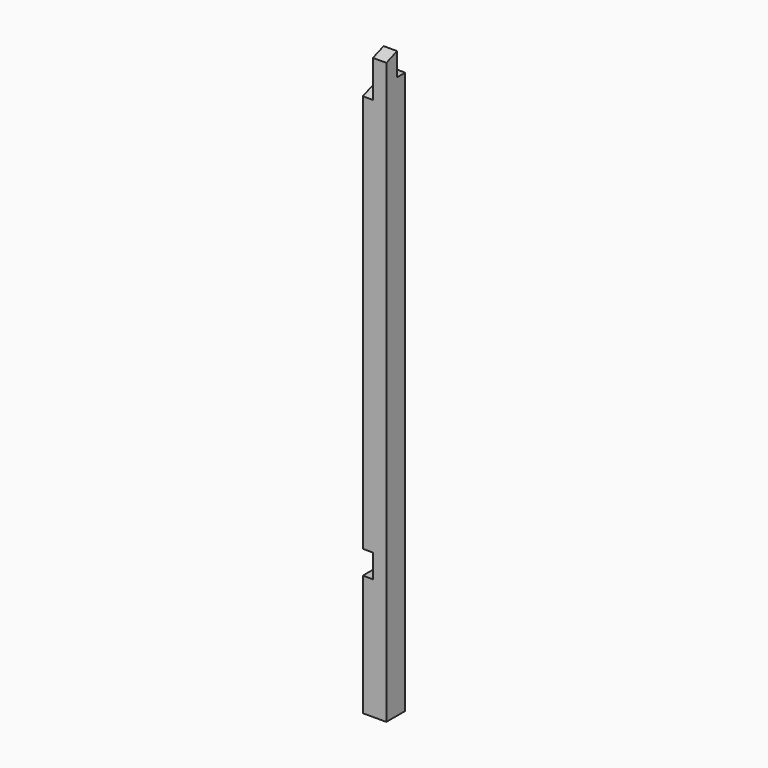
from build123d import *

# Parameters (mm, degrees)
BOX006_W        = 88.9
BOX006_H        = 88.9
BOX006_DEPTH    = 2438.4
SKETCH003_W     = 38.1
SKETCH003_H     = 88.9
POCKET003_DEPTH = 88.9010000032
POCKET009_DEPTH = 88.901
POCKET013_DEPTH = 38.1
SKETCH018_W     = 38.1
SKETCH018_H     = 101.6
POCKET015_DEPTH = 88.901


with BuildPart() as obj1:
    # Box006 → Box006 (new body)
    with BuildSketch(Plane(origin=(1435.1, 1435.1, 0), x_dir=(1, 0, 0), z_dir=(0, 0, 1))):
        with Locations((44.45, 44.45)):
            Rectangle(BOX006_W, BOX006_H)
    extrude(amount=BOX006_DEPTH)

    # Sketch003 → Pocket003 (cut, through all)
    with BuildSketch(Plane(origin=(1435.1, 1435.1, 0), x_dir=(1, 0, 0), z_dir=(0, -1, 0))):
        with Locations((69.85, 501.65)):
            Rectangle(SKETCH003_W, SKETCH003_H)
    extrude(amount=-POCKET003_DEPTH, mode=Mode.SUBTRACT)


with BuildPart() as pocket015:
    # Part__Mirroring: instance of obj1
    add(obj1.part.mirror(Plane(origin=(762, 0, 0), x_dir=(0, -1, 0), z_dir=(1, 0, 0))))

    # Sketch010 → Pocket009 (cut, through all)
    with BuildSketch(Plane(origin=(0, 0, 0), x_dir=(0, -1, 0), z_dir=(-1, 0, 0))):
        Polygon((-1524.003048, 2221.9412), (-1524.003048, 2438.4), (-1434.087048, 2438.4), (-1434.087048, 2189.2144524157), align=None)
    extrude(amount=-POCKET009_DEPTH, mode=Mode.SUBTRACT)

    # Sketch014 → Pocket013 (cut)
    with BuildSketch(Plane(origin=(0, 0, 0), x_dir=(0, -1, 0), z_dir=(-1, 0, 0))):
        Polygon((-1524, 2221.9412), (-1435.1, 2189.5842461737), (-1435.1, 2049.8842461737), (-1524, 2082.2412), align=None)
    extrude(amount=-POCKET013_DEPTH, mode=Mode.SUBTRACT)

    # Sketch018 → Pocket015 (cut, through all)
    with BuildSketch(Plane.YZ.offset(88.9)):
        with Locations((1504.95, 2171.7)):
            Rectangle(SKETCH018_W, SKETCH018_H)
    extrude(amount=-POCKET015_DEPTH, mode=Mode.SUBTRACT)


solid = pocket015.part
